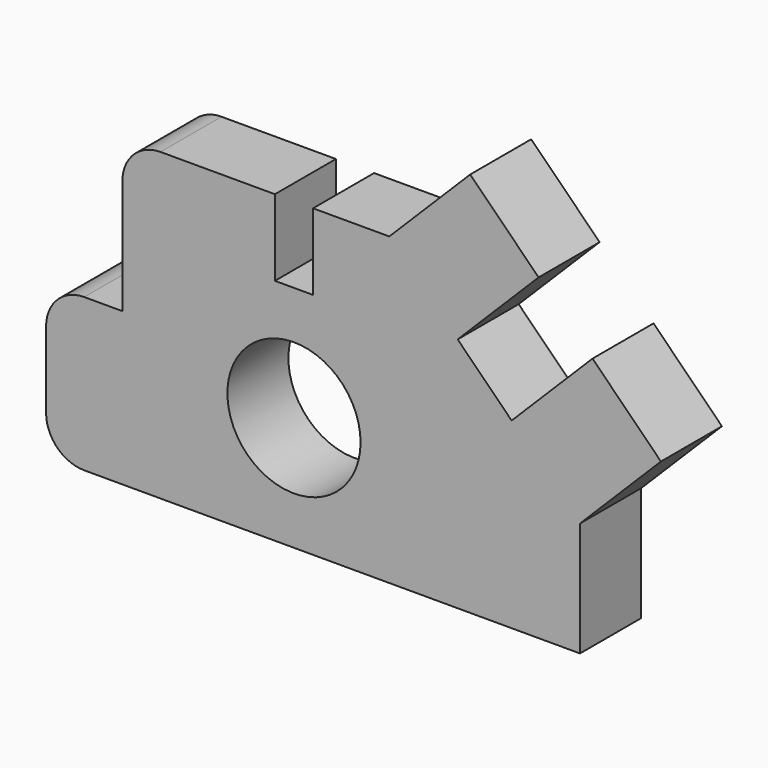
from build123d import *

# Parameters (mm, degrees)
F0_R     = 221.726541
F1_DEPTH = 254


with BuildPart() as f1:
    # F0 (on Front) → F1 (new body)
    with BuildSketch(Plane.XZ):
        with BuildLine():
            ThreePointArc((0, 127), (37.197439, 37.197439), (127, 0))
            Line((127, 0), (1778, 0))
            Line((1778, 0), (1778, 381))
            Line((1778, 381), (2047.407684, 650.407684))
            Line((2047.407684, 650.407684), (1819.710265, 878.105103))
            Line((1819.710265, 878.105103), (1550.302581, 608.697419))
            Line((1550.302581, 608.697419), (1370.697458, 788.302542))
            Line((1370.697458, 788.302542), (1640.105142, 1057.710225))
            Line((1640.105142, 1057.710225), (1412.407723, 1285.407644))
            Line((1412.407723, 1285.407644), (1143, 1016))
            Line((1143, 1016), (889, 1016))
            Line((889, 1016), (889, 762))
            Line((889, 762), (762, 762))
            Line((762, 762), (762, 1016))
            Line((762, 1016), (381, 1016))
            ThreePointArc((381, 1016), (291.197439, 978.802561), (254, 889))
            Line((254, 889), (254, 508))
            Line((254, 508), (127, 508))
            ThreePointArc((127, 508), (37.197439, 470.802561), (0, 381))
            Line((0, 381), (0, 127))
        make_face()
        with Locations((825.5, 381)):
            Circle(F0_R, mode=Mode.SUBTRACT)
    extrude(amount=F1_DEPTH)


solid = f1.part
